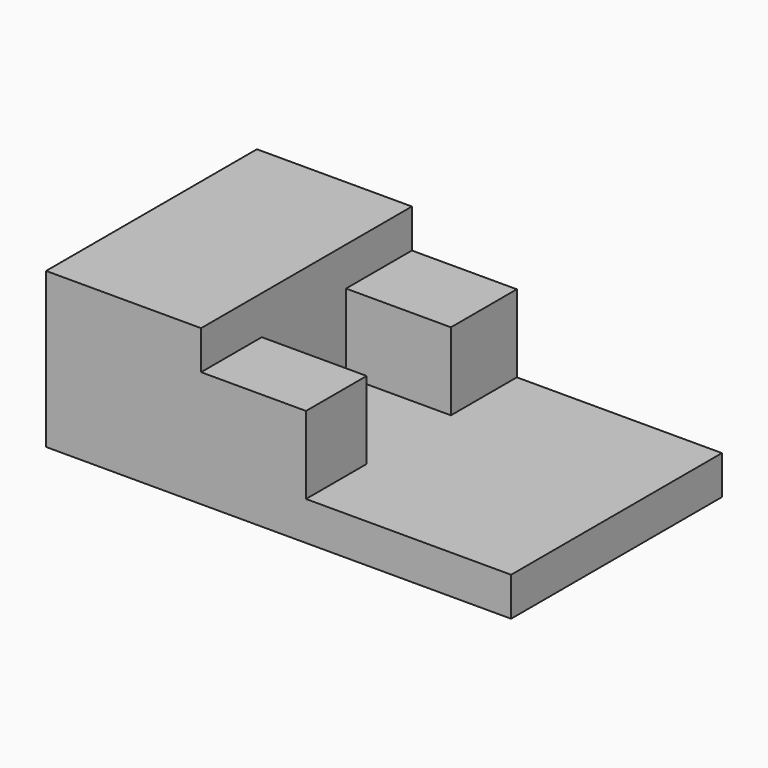
from build123d import *

# Parameters (mm, degrees)
F0_W     = 76.2
F0_H     = 43.18
F1_DEPTH = 25.4
F2_W     = 50.8
F2_H     = 6.35
F3_DEPTH = 43.181
F5_DEPTH = 12.7


with BuildPart() as f1:
    # F0 (on Top) → F1 (new body)
    with BuildSketch(Plane.XY):
        with Locations((34.672838, -9.800495)):
            Rectangle(F0_W, F0_H)
    extrude(amount=F1_DEPTH)

    # F2 (on face) → F3 (cut, through all)
    with BuildSketch(Plane.XZ.offset(31.390495)):
        with Locations((47.372838, 22.225)):
            Rectangle(F2_W, F2_H)
    extrude(amount=-F3_DEPTH, mode=Mode.SUBTRACT)

    # F4 (on face) → F5 (cut)
    with BuildSketch(Plane.XY.offset(19.05)):
        Polygon((39.164659, -1.706043), (21.972838, -1.706043), (21.972838, -18.966546), (39.164659, -18.966546), (39.164659, -31.390495), (72.772838, -31.390495), (72.772838, 11.789505), (39.164659, 11.789505), align=None)
    extrude(amount=-F5_DEPTH, mode=Mode.SUBTRACT)


solid = f1.part
